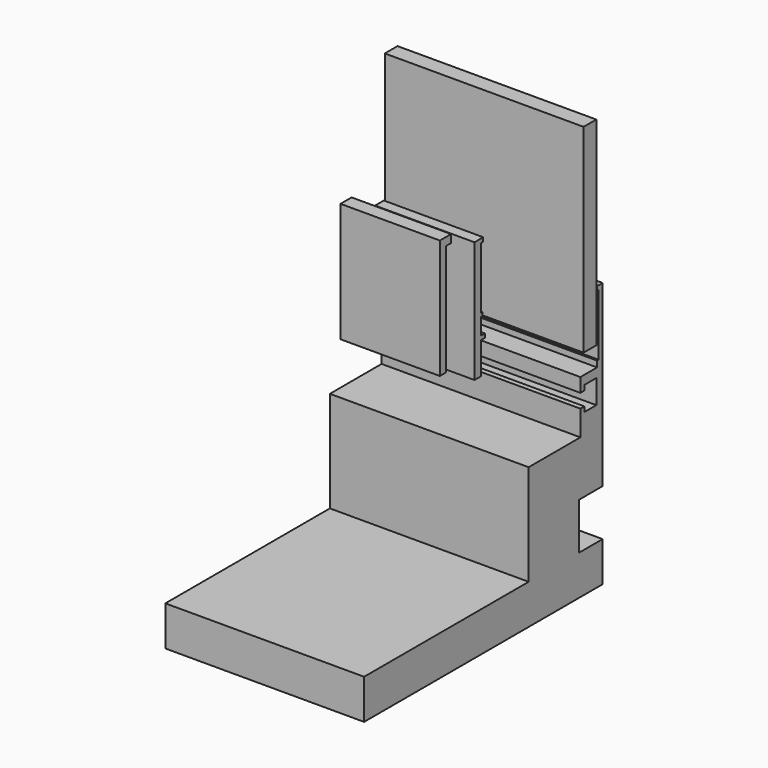
from build123d import *

# Parameters (mm, degrees)
F1_DEPTH = 100
F2_W     = 8
F2_H     = 100
F3_DEPTH = 100
F5_DEPTH = 50
F7_DEPTH = 50


with BuildPart() as f1:
    # F0 (on Right) → F1 (new body)
    with BuildSketch(Plane.YZ):
        Polygon((0, 43.452769), (0, 133.452769), (-3.5, 133.452769), (-3.5, 131.452769), (-2.5, 131.452769), (-2.5, 100.452769), (-3.5, 100.452769), (-3.5, 97.452769), (-14, 97.452769), (-14, 90.452769), (-11.5, 90.452769), (-11.5, 92.952769), (-4, 92.952769), (-4, 80.952769), (-11.5, 80.952769), (-11.5, 83.452769), (-14, 83.452769), (-14, 70.752769), (-46.540717, 70.752769), (-46.540717, 20), (-150, 20), (-150, 0), (0, 0), (0, 20), (-15, 20), (-15, 43.452769), align=None)
    extrude(amount=F1_DEPTH)


with BuildPart() as f3:
    # F2 (on Right) → F3 (new body)
    with BuildSketch(Plane.YZ):
        with Locations((-8, 157.452769)):
            Rectangle(F2_W, F2_H)
    extrude(amount=F3_DEPTH)


with BuildPart() as f5:
    # F4 (on Right) → F5 (new body)
    with BuildSketch(Plane.YZ):
        Polygon((-12.6, 140.552769), (-12.6, 142.552769), (-18.1, 142.552769), (-18.1, 81.552769), (-14.1, 81.552769), (-14.1, 97.552769), (-11.6, 97.552769), (-11.6, 99.552769), (-14.1, 99.552769), (-14.1, 108.052769), (-13.1, 108.052769), (-13.1, 109.552769), (-14.1, 109.552769), (-14.1, 140.552769), align=None)
    extrude(amount=F5_DEPTH)


with BuildPart() as f7:
    # F6 (on Right) → F7 (new body)
    with BuildSketch(Plane.YZ):
        Polygon((-39.859165, 92.174934), (-35.859165, 92.174934), (-35.859165, 148.174934), (-32.859165, 148.174934), (-32.859165, 152.174934), (-39.859165, 152.174934), align=None)
    extrude(amount=F7_DEPTH)


solid = Compound([f1.part, f3.part, f5.part, f7.part])
